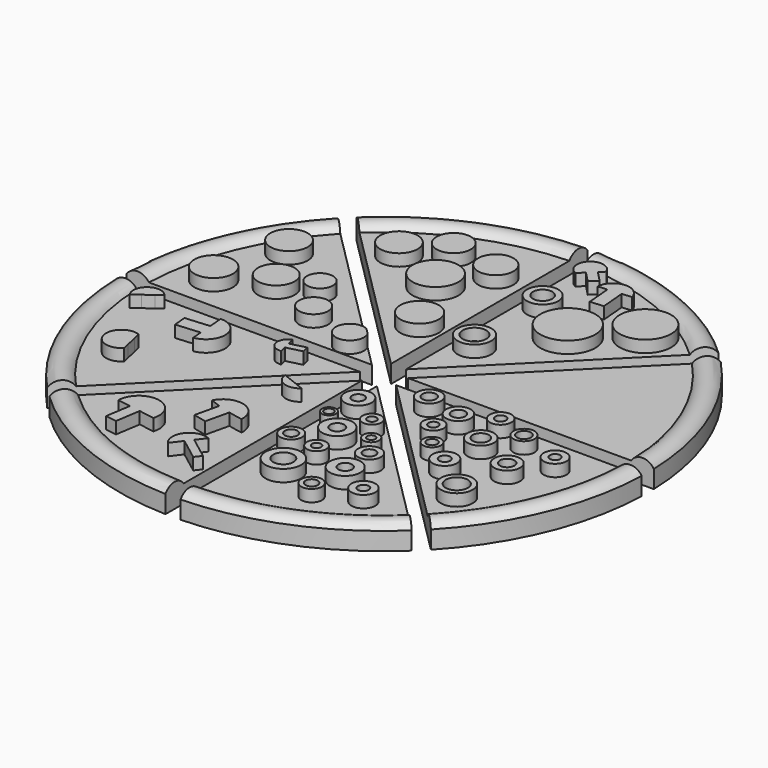
from build123d import *

# Parameters (mm, degrees)
F0_R      = 44.45
F1_DEPTH  = 2
F3_R      = 2.4436403038
F3_R_2    = 3.0932573132
F3_R_3    = 3.2587772625
F3_R_4    = 3.1548325159
F3_R_5    = 2.1877333942
F3_R_6    = 2.3805104866
F3_R_7    = 3.2489423391
F3_R_8    = 3.8685611754
F3_R_9    = 3.1422544642
F3_R_10   = 2.9833620131
F3_R_11   = 2.8826400634
F4_R      = 2.5335568625
F4_R_2    = 1.1903295008
F4_R_3    = 2.576660728
F4_R_4    = 1.1467396232
F4_R_5    = 2.9994102464
F4_R_6    = 1.7068112144
F4_R_7    = 2.2480240718
F4_R_8    = 1.0249687428
F4_R_9    = 1.9214531137
F4_R_10   = 1.0397136135
F4_R_11   = 1.6254681377
F4_R_12   = 0.7601510475
F4_R_13   = 1.5749063615
F4_R_14   = 0.7692067722
F4_R_15   = 2.0026522279
F4_R_16   = 0.9052203305
F4_R_17   = 1.7438524836
F4_R_18   = 1.0302950266
F4_R_19   = 1.3292380965
F4_R_20   = 0.6835479339
F4_R_21   = 1.8392344487
F4_R_22   = 1.0682333672
F4_R_23   = 1.1798083262
F4_R_24   = 0.7695314829
F4_R_25   = 2.0195511419
F4_R_26   = 1.1528647807
F4_R_27   = 1.7141897232
F4_R_28   = 0.8302805429
F4_R_29   = 2.0751822666
F4_R_30   = 1.1485442978
F4_R_31   = 2.2195962869
F4_R_32   = 1.3588774731
F4_R_33   = 2.0518796268
F4_R_34   = 0.9298150127
F4_R_35   = 1.4996715711
F4_R_36   = 0.8955466764
F4_R_37   = 1.7852762756
F4_R_38   = 1.1742732022
F4_R_39   = 2.1784893232
F4_R_40   = 1.2170737626
F4_R_41   = 1.9180727703
F4_R_42   = 0.8701496983
F4_R_43   = 2.6916126857
F4_R_44   = 1.8600307674
F4_R_45   = 1.8089574971
F4_R_46   = 0.8966014578
F5_R      = 4.6309493482
F5_R_2    = 2.8476589903
F5_R_3    = 1.9817283411
F5_R_4    = 4.3395848364
F5_R_5    = 2.6400478109
F5_R_6    = 1.6208328307
F6_DEPTH  = 2
F7_DEPTH  = 1
F11_DEPTH = 5.001
F12_R     = 2.54
F13_DEPTH = 3.0010001


with BuildPart() as f1:
    # F0 (on Top) → F1 (new body)
    with BuildSketch(Plane.XY):
        Circle(F0_R)
    extrude(amount=F1_DEPTH)

    # F3 (on face) + F4 (on face) + F5 (on face) → F6 (join)
    with BuildSketch(Plane.XY.offset(2)):
        with Locations((-17.1470027417, 6.6197174601)):
            Circle(F3_R)
        with Locations((-26.5199877322, 10.4598952457)):
            Circle(F3_R_2)
        with Locations((-34.3779250979, 7.0999502204)):
            Circle(F3_R_3)
        with Locations((-31.3554741442, 19.205994904)):
            Circle(F3_R_4)
        with Locations((-20.9358371794, 12.688934803)):
            Circle(F3_R_5)
        with Locations((-8.7248682976, 3.7342244759)):
            Circle(F3_R_6)
        with Locations((-5.1059429534, 13.8718672097)):
            Circle(F3_R_7)
        with Locations((-10.3660160676, 23.8138921559)):
            Circle(F3_R_8)
        with Locations((-19.6799766272, 27.7515016496)):
            Circle(F3_R_9)
        with Locations((-5.7251034304, 30.7040959597)):
            Circle(F3_R_10)
        with Locations((-13.9154717326, 32.0727005601)):
            Circle(F3_R_11)
        with BuildLine():
            Line((-23.9767049643, -8.617975742), (-23.8339118659, -10.3743299842))
            ThreePointArc((-23.8339118659, -10.3743299842), (-21.0229057703, -6.9176490024), (-24.3553668261, -3.9604371414))
            Line((-24.3553668261, -3.9604371414), (-24.1578061559, -6.3904321841))
            Line((-24.1578061559, -6.3904321841), (-23.9767049643, -8.617975742))
        make_face()
        Polygon((-28.0442992252, -8.9486746257), (-23.9767049643, -8.617975742), (-24.1578061559, -6.3904321841), (-28.2254004168, -6.7211310678), align=None)
        with BuildLine():
            Line((-29.7522482346, -15.3628566142), (-30.0259644343, -14.118691095))
            ThreePointArc((-30.0259644343, -14.118691095), (-33.5265915791, -17.1012679559), (-29.0974326866, -18.3392932556))
            Line((-29.0974326866, -18.3392932556), (-29.3418151805, -17.2284628675))
            Line((-29.3418151805, -17.2284628675), (-29.7522482346, -15.3628566142))
        make_face()
        with BuildLine():
            Line((-35.3433609297, -4.008748133), (-34.3492403626, -3.2822755165))
            ThreePointArc((-34.3492403626, -3.2822755165), (-37.4967323526, -2.8673858162), (-38.0575321615, -5.9921806678))
            Line((-38.0575321615, -5.9921806678), (-36.8047453017, -5.0766827111))
            Line((-36.8047453017, -5.0766827111), (-35.3433609297, -4.008748133))
        make_face()
        with BuildLine():
            Line((-12.990559296, -3.8568127054), (-13.2890135128, -2.6795774579))
            ThreePointArc((-13.2890135128, -2.6795774579), (-14.4249105031, -4.8031084592), (-12.4145146538, -6.1289871923))
            Line((-12.4145146538, -6.1289871923), (-12.6929049922, -5.0308927427))
            Line((-12.6929049922, -5.0308927427), (-12.990559296, -3.8568127054))
        make_face()
        Polygon((-10.3600719666, -3.1899281236), (-12.990559296, -3.8568127054), (-12.6929049922, -5.0308927427), (-10.0624176628, -4.3640081609), align=None)
        with BuildLine():
            ThreePointArc((-6.807067744, -24.0356103328), (-5.604885578, -24.3094080472), (-4.3927053921, -24.5348550379))
            ThreePointArc((-4.3927053921, -24.5348550379), (-6.8296341234, -21.0120226644), (-10.734366253, -22.7732826024))
            ThreePointArc((-10.734366253, -22.7732826024), (-9.8735637409, -23.1003210566), (-9.0033665356, -23.4014720806))
            ThreePointArc((-9.0033665356, -23.4014720806), (-7.9111044187, -23.7389314346), (-6.807067744, -24.0356103328))
        make_face()
        with BuildLine():
            Line((-7.7251192183, -27.9907815652), (-6.807067744, -24.0356103328))
            ThreePointArc((-6.807067744, -24.0356103328), (-7.9111044187, -23.7389314346), (-9.0033665356, -23.4014720806))
            Line((-9.0033665356, -23.4014720806), (-9.9488049746, -27.4746324867))
            Line((-9.9488049746, -27.4746324867), (-7.7251192183, -27.9907815652))
        make_face()
        with BuildLine():
            Line((-16.285811325, -31.0830008959), (-13.6415259105, -31.4971666301))
            ThreePointArc((-13.6415259105, -31.4971666301), (-16.4080341235, -27.0460433478), (-20.4029999686, -30.4381391695))
            Line((-20.4029999686, -30.4381391695), (-18.1776596401, -30.7866869117))
            Line((-18.1776596401, -30.7866869117), (-16.285811325, -31.0830008959))
        make_face()
        Polygon((-16.9433898508, -35.2813813053), (-16.285811325, -31.0830008959), (-18.1776596401, -30.7866869117), (-18.8352381659, -34.9850673211), align=None)
        with BuildLine():
            Line((-6.4453340585, -11.6577566932), (-7.7251192183, -11.1517077312))
            ThreePointArc((-7.7251192183, -11.1517077312), (-6.218468698, -13.2380269192), (-3.6924174055, -12.7463070676))
            Line((-3.6924174055, -12.7463070676), (-6.4453340585, -11.6577566932))
        make_face()
        with BuildLine():
            Line((-5.5555675259, -33.0158019516), (-4.4004031581, -31.4971666301))
            ThreePointArc((-4.4004031581, -31.4971666301), (-7.7990674748, -32.3618455816), (-7.7251192183, -35.8680002391))
            Line((-7.7251192183, -35.8680002391), (-6.3562248909, -34.0683851066))
            Line((-6.3562248909, -34.0683851066), (-5.5555675259, -33.0158019516))
        make_face()
        Polygon((-1.805928787, -35.8680002391), (-5.5555675259, -33.0158019516), (-6.3562248909, -34.0683851066), (-2.606586152, -36.9205833942), align=None)
    with BuildSketch(Plane.XY.offset(2)):
        with Locations((6.9050178863, -18.475105986)):
            Circle(F4_R)
        with Locations((6.9050178863, -18.475105986)):
            Circle(F4_R_2, mode=Mode.SUBTRACT)
        with Locations((14.7761907429, -26.6432408243)):
            Circle(F4_R_3)
        with Locations((14.7761907429, -26.6432408243)):
            Circle(F4_R_4, mode=Mode.SUBTRACT)
        with Locations((6.9050178863, -29.8244915903)):
            Circle(F4_R_5)
        with Locations((6.9050178863, -29.8244915903)):
            Circle(F4_R_6, mode=Mode.SUBTRACT)
        with Locations((3.8104467094, -10.1916138083)):
            Circle(F4_R_7)
        with Locations((3.8104467094, -10.1916138083)):
            Circle(F4_R_8, mode=Mode.SUBTRACT)
        with Locations((14.7761907429, -21.5232539922)):
            Circle(F4_R_9)
        with Locations((14.7761907429, -21.5232539922)):
            Circle(F4_R_10, mode=Mode.SUBTRACT)
        with Locations((8.0235563219, -24.2387261242)):
            Circle(F4_R_11)
        with Locations((8.0235563219, -24.2387261242)):
            Circle(F4_R_12, mode=Mode.SUBTRACT)
        with Locations((9.0192742646, -13.8146420941)):
            Circle(F4_R_13)
        with Locations((9.0192742646, -13.8146420941)):
            Circle(F4_R_14, mode=Mode.SUBTRACT)
        with Locations((20.3893259168, -29.8244915903)):
            Circle(F4_R_15)
        with Locations((20.3893259168, -29.8244915903)):
            Circle(F4_R_16, mode=Mode.SUBTRACT)
        with Locations((14.1665274277, -32.9439863563)):
            Circle(F4_R_17)
        with Locations((14.1665274277, -32.9439863563)):
            Circle(F4_R_18, mode=Mode.SUBTRACT)
        with Locations((12.2362673283, -17.9868694395)):
            Circle(F4_R_19)
        with Locations((12.2362673283, -17.9868694395)):
            Circle(F4_R_20, mode=Mode.SUBTRACT)
        with Locations((3.2121778931, -23.5605705529)):
            Circle(F4_R_21)
        with Locations((3.2121778931, -23.5605705529)):
            Circle(F4_R_22, mode=Mode.SUBTRACT)
        with Locations((3.2121778931, -15.600326471)):
            Circle(F4_R_23)
        with Locations((3.2121778931, -15.600326471)):
            Circle(F4_R_24, mode=Mode.SUBTRACT)
        with Locations((10.8777582645, -4.0864916518)):
            Circle(F4_R_25)
        with Locations((10.8777582645, -4.0864916518)):
            Circle(F4_R_26, mode=Mode.SUBTRACT)
        with Locations((16.3149312139, -9.9844411016)):
            Circle(F4_R_27)
        with Locations((16.3149312139, -9.9844411016)):
            Circle(F4_R_28, mode=Mode.SUBTRACT)
        with Locations((16.957430169, -5.5310353637)):
            Circle(F4_R_29)
        with Locations((16.957430169, -5.5310353637)):
            Circle(F4_R_30, mode=Mode.SUBTRACT)
        with Locations((23.5463492572, -9.0567776933)):
            Circle(F4_R_31)
        with Locations((23.5463492572, -9.0567776933)):
            Circle(F4_R_32, mode=Mode.SUBTRACT)
        with Locations((23.5463492572, -16.6417919099)):
            Circle(F4_R_33)
        with Locations((23.5463492572, -16.6417919099)):
            Circle(F4_R_34, mode=Mode.SUBTRACT)
        with Locations((19.2845594138, -13.9888059348)):
            Circle(F4_R_35)
        with Locations((19.2845594138, -13.9888059348)):
            Circle(F4_R_36, mode=Mode.SUBTRACT)
        with Locations((27.4609774351, -4.8555727117)):
            Circle(F4_R_37)
        with Locations((27.4609774351, -4.8555727117)):
            Circle(F4_R_38, mode=Mode.SUBTRACT)
        with Locations((30.7228472084, -12.4666001648)):
            Circle(F4_R_39)
        with Locations((30.7228472084, -12.4666001648)):
            Circle(F4_R_40, mode=Mode.SUBTRACT)
        with Locations((34.5879495144, -7.210645359)):
            Circle(F4_R_41)
        with Locations((34.5879495144, -7.210645359)):
            Circle(F4_R_42, mode=Mode.SUBTRACT)
        with Locations((29.2451996356, -21.2365854532)):
            Circle(F4_R_43)
        with Locations((29.2451996356, -21.2365854532)):
            Circle(F4_R_44, mode=Mode.SUBTRACT)
        with Locations((22.1201498061, -3.0852393247)):
            Circle(F4_R_45)
        with Locations((22.1201498061, -3.0852393247)):
            Circle(F4_R_46, mode=Mode.SUBTRACT)
    with BuildSketch(Plane.XY.offset(2)):
        with Locations((12.2686391696, 23.3622267842)):
            Circle(F5_R)
        with Locations((4.511797335, 13.4056825191)):
            Circle(F5_R_2)
        with Locations((4.511797335, 13.4056825191)):
            Circle(F5_R_3, mode=Mode.SUBTRACT)
        with Locations((20.2570296824, 29.729783535)):
            Circle(F5_R_4)
        with Locations((4.511797335, 27.7616288513)):
            Circle(F5_R_5)
        with Locations((4.511797335, 27.7616288513)):
            Circle(F5_R_6, mode=Mode.SUBTRACT)
        with BuildLine():
            Line((12.3830526072, 34.5699940338), (14.0052456409, 34.7080528736))
            ThreePointArc((14.0052456409, 34.7080528736), (11.0862391066, 36.8068054311), (8.563878946, 34.2449583113))
            Line((8.563878946, 34.2449583113), (10.1408394336, 34.3791675767))
            Line((10.1408394336, 34.3791675767), (12.3830526072, 34.5699940338))
        make_face()
        Polygon((12.7398291999, 30.3778647655), (12.3830526072, 34.5699940338), (10.1408394336, 34.3791675767), (10.4976160262, 30.1870383084), align=None)
        with BuildLine():
            Line((6.0497960077, 37.460473051), (6.8542649969, 38.2351465523))
            ThreePointArc((6.8542649969, 38.2351465523), (3.2367540823, 39.0534214711), (3.9179837331, 35.4076176882))
            Line((3.9179837331, 35.4076176882), (4.9263027266, 36.3785911073))
            Line((4.9263027266, 36.3785911073), (6.0497960077, 37.460473051))
        make_face()
        Polygon((7.7804921794, 35.6632108526), (6.0497960077, 37.460473051), (4.9263027266, 36.3785911073), (6.6569988983, 34.5813289089), align=None)
    extrude(amount=F6_DEPTH)

    # F7 (add): a face of the model
    f7_faces = [f1.faces().sort_by_distance(p)[0] for p in [
        (0, 0, 0),
    ]]
    extrude(f7_faces, amount=F7_DEPTH)

    # F9: sweep along a path in F0
    with BuildLine(Plane.XY) as f9_path:
        CenterArc((0, 0), 44.45, 0, 360)
    # F8 (on Front) → F9 (sweep)
    with BuildSketch(Plane.XZ):
        with BuildLine():
            Line((40.64, 2), (44.45, 2))
            ThreePointArc((44.45, 2), (42.545, 3.0223659549), (40.64, 2))
        make_face()
    sweep(path=f9_path.line)

    # F10 (on face) → F11 (cut, through all)
    with BuildSketch(Plane(origin=(0, 0, -1), x_dir=(1, 0, 0), z_dir=(0, 0, -1))):
        with BuildLine():
            Line((1.27, 44.45), (-1.27, 44.45))
            Line((-1.27, 44.45), (-1.27, 3.0660512242))
            Line((-1.27, 3.0660512242), (-0.6574003746, 2.4534515988))
            ThreePointArc((-0.6574003746, 2.4534515988), (0, 2.54), (0.6574003746, 2.4534515988))
            Line((0.6574003746, 2.4534515988), (1.27, 3.0660512242))
            Line((1.27, 3.0660512242), (1.27, 44.45))
        make_face()
        with BuildLine():
            Line((-0.6574003746, 2.4534515988), (-1.27, 3.0660512242))
            Line((-1.27, 3.0660512242), (-1.27, 2.1997045256))
            ThreePointArc((-1.27, 2.1997045256), (-0.9720159182, 2.3466540126), (-0.6574003746, 2.4534515988))
        make_face()
        with BuildLine():
            Line((-1.27, 2.1997045256), (-1.27, 3.0660512242))
            Line((-1.27, 3.0660512242), (-30.5328708116, 32.3289220358))
            Line((-30.5328708116, 32.3289220358), (-31.4308964237, 31.4308964237))
            Line((-31.4308964237, 31.4308964237), (-1.7960512242, 1.7960512242))
            ThreePointArc((-1.7960512242, 1.7960512242), (-1.5462540297, 2.0151174843), (-1.27, 2.1997045256))
        make_face()
        with BuildLine():
            Line((30.5328708116, 32.3289220358), (1.27, 3.0660512242))
            Line((1.27, 3.0660512242), (1.27, 2.1997045256))
            ThreePointArc((1.27, 2.1997045256), (1.7960512242, 1.7960512242), (2.1997045256, 1.27))
            Line((2.1997045256, 1.27), (3.0660512242, 1.27))
            Line((3.0660512242, 1.27), (32.3289220358, 30.5328708116))
            Line((32.3289220358, 30.5328708116), (30.5328708116, 32.3289220358))
        make_face()
        with BuildLine():
            Line((1.27, 2.1997045256), (1.27, 3.0660512242))
            Line((1.27, 3.0660512242), (0.6574003746, 2.4534515988))
            ThreePointArc((0.6574003746, 2.4534515988), (0.9720159182, 2.3466540126), (1.27, 2.1997045256))
        make_face()
        with BuildLine():
            ThreePointArc((-2.1997045256, 1.27), (-2.0151174843, 1.5462540297), (-1.7960512242, 1.7960512242))
            Line((-1.7960512242, 1.7960512242), (-31.4308964237, 31.4308964237))
            Line((-31.4308964237, 31.4308964237), (-32.3289220358, 30.5328708116))
            Line((-32.3289220358, 30.5328708116), (-3.0660512242, 1.27))
            Line((-3.0660512242, 1.27), (-2.1997045256, 1.27))
        make_face()
        with BuildLine():
            Line((3.0660512242, 1.27), (2.1997045256, 1.27))
            ThreePointArc((2.1997045256, 1.27), (2.3466540126, 0.9720159182), (2.4534515988, 0.6574003746))
            Line((2.4534515988, 0.6574003746), (3.0660512242, 1.27))
        make_face()
        with BuildLine():
            ThreePointArc((-2.4534515988, 0.6574003746), (-2.3466540126, 0.9720159182), (-2.1997045256, 1.27))
            Line((-2.1997045256, 1.27), (-3.0660512242, 1.27))
            Line((-3.0660512242, 1.27), (-2.4534515988, 0.6574003746))
        make_face()
        with BuildLine():
            Line((44.45, 1.27), (3.0660512242, 1.27))
            Line((3.0660512242, 1.27), (2.4534515988, 0.6574003746))
            ThreePointArc((2.4534515988, 0.6574003746), (2.5182699479, 0.3315365282), (2.54, 0))
            ThreePointArc((2.54, 0), (2.5182699479, -0.3315365282), (2.4534515988, -0.6574003746))
            Line((2.4534515988, -0.6574003746), (3.0660512242, -1.27))
            Line((3.0660512242, -1.27), (44.45, -1.27))
            Line((44.45, -1.27), (44.45, 1.27))
        make_face()
        with BuildLine():
            Line((-2.4534515988, 0.6574003746), (-3.0660512242, 1.27))
            Line((-3.0660512242, 1.27), (-44.45, 1.27))
            Line((-44.45, 1.27), (-44.45, -1.27))
            Line((-44.45, -1.27), (-3.0660512242, -1.27))
            Line((-3.0660512242, -1.27), (-2.4534515988, -0.6574003746))
            ThreePointArc((-2.4534515988, -0.6574003746), (-2.54, 0), (-2.4534515988, 0.6574003746))
        make_face()
        with BuildLine():
            ThreePointArc((-2.1997045256, -1.27), (-2.3466540126, -0.9720159182), (-2.4534515988, -0.6574003746))
            Line((-2.4534515988, -0.6574003746), (-3.0660512242, -1.27))
            Line((-3.0660512242, -1.27), (-2.1997045256, -1.27))
        make_face()
        with BuildLine():
            Line((3.0660512242, -1.27), (2.4534515988, -0.6574003746))
            ThreePointArc((2.4534515988, -0.6574003746), (2.3466540126, -0.9720159182), (2.1997045256, -1.27))
            Line((2.1997045256, -1.27), (3.0660512242, -1.27))
        make_face()
        with BuildLine():
            ThreePointArc((-0.6574003746, -2.4534515988), (-0.9720159182, -2.3466540126), (-1.27, -2.1997045256))
            Line((-1.27, -2.1997045256), (-1.27, -3.0660512242))
            Line((-1.27, -3.0660512242), (-0.6574003746, -2.4534515988))
        make_face()
        with BuildLine():
            Line((-1.27, -3.0660512242), (-1.27, -2.1997045256))
            ThreePointArc((-1.27, -2.1997045256), (-1.5462540297, -2.0151174843), (-1.7960512242, -1.7960512242))
            Line((-1.7960512242, -1.7960512242), (-31.4308964237, -31.4308964237))
            Line((-31.4308964237, -31.4308964237), (-30.5328708116, -32.3289220358))
            Line((-30.5328708116, -32.3289220358), (-1.27, -3.0660512242))
        make_face()
        with BuildLine():
            ThreePointArc((-1.7960512242, -1.7960512242), (-2.0151174843, -1.5462540297), (-2.1997045256, -1.27))
            Line((-2.1997045256, -1.27), (-3.0660512242, -1.27))
            Line((-3.0660512242, -1.27), (-32.3289220358, -30.5328708116))
            Line((-32.3289220358, -30.5328708116), (-31.4308964237, -31.4308964237))
            Line((-31.4308964237, -31.4308964237), (-1.7960512242, -1.7960512242))
        make_face()
        with BuildLine():
            ThreePointArc((2.1997045256, -1.27), (1.7960512242, -1.7960512242), (1.27, -2.1997045256))
            Line((1.27, -2.1997045256), (1.27, -3.0660512242))
            Line((1.27, -3.0660512242), (30.5328708116, -32.3289220358))
            Line((30.5328708116, -32.3289220358), (32.3289220358, -30.5328708116))
            Line((32.3289220358, -30.5328708116), (3.0660512242, -1.27))
            Line((3.0660512242, -1.27), (2.1997045256, -1.27))
        make_face()
        with BuildLine():
            Line((1.27, -3.0660512242), (1.27, -2.1997045256))
            ThreePointArc((1.27, -2.1997045256), (0.9720159182, -2.3466540126), (0.6574003746, -2.4534515988))
            Line((0.6574003746, -2.4534515988), (1.27, -3.0660512242))
        make_face()
        with BuildLine():
            Line((-0.6574003746, -2.4534515988), (-1.27, -3.0660512242))
            Line((-1.27, -3.0660512242), (-1.27, -44.45))
            Line((-1.27, -44.45), (1.27, -44.45))
            Line((1.27, -44.45), (1.27, -3.0660512242))
            Line((1.27, -3.0660512242), (0.6574003746, -2.4534515988))
            ThreePointArc((0.6574003746, -2.4534515988), (0, -2.54), (-0.6574003746, -2.4534515988))
        make_face()
    extrude(amount=-F11_DEPTH, mode=Mode.SUBTRACT)

    # F12 (on face) → F13 (cut, through all)
    with BuildSketch(Plane.XY.offset(2)):
        Circle(F12_R)
    extrude(amount=-F13_DEPTH, mode=Mode.SUBTRACT)


solid = f1.part
